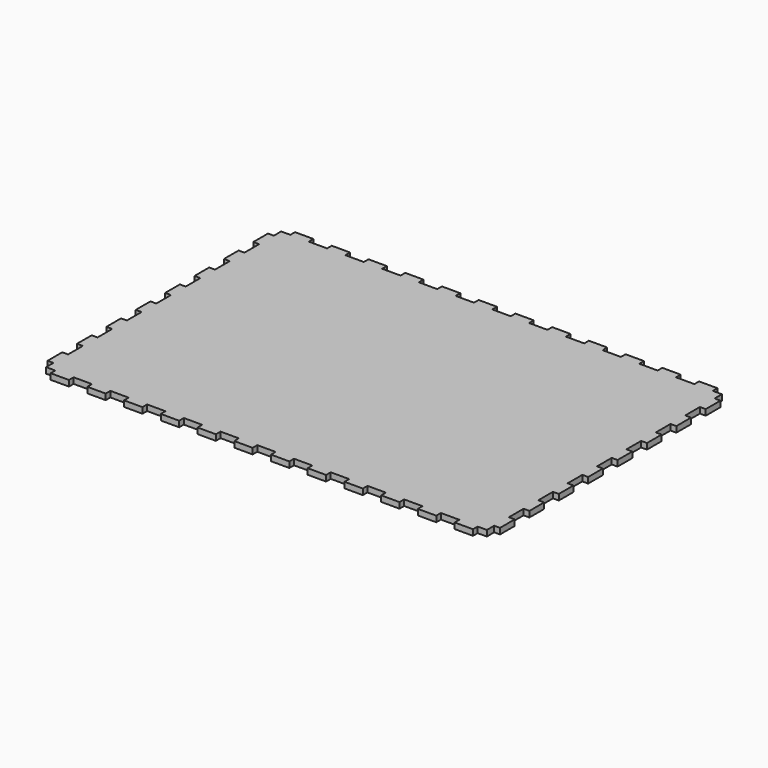
from build123d import *

# Parameters (mm, degrees)
F1_DEPTH = 3.175


with BuildPart() as f1:
    # F0 (on Top) → F1 (new body)
    with BuildSketch(Plane.XY):
        Polygon((120, 75), (120, 80), (115, 80), (115, 83.175), (105, 83.175), (105, 80), (95, 80), (95, 83.175), (85, 83.175), (85, 80), (75, 80), (75, 83.175), (65, 83.175), (65, 80), (55, 80), (55, 83.175), (45, 83.175), (45, 80), (35, 80), (35, 83.175), (25, 83.175), (25, 80), (15, 80), (15, 83.175), (5, 83.175), (5, 80), (0, 80), (-5, 80), (-5, 83.175), (-15, 83.175), (-15, 80), (-25, 80), (-25, 83.175), (-35, 83.175), (-35, 80), (-45, 80), (-45, 83.175), (-55, 83.175), (-55, 80), (-65, 80), (-65, 83.175), (-75, 83.175), (-75, 80), (-85, 80), (-85, 83.175), (-95, 83.175), (-95, 80), (-105, 80), (-105, 83.175), (-115, 83.175), (-115, 80), (-120, 80), (-120, 75), (-123.175, 75), (-123.175, 65), (-120, 65), (-120, 55), (-123.175, 55), (-123.175, 45), (-120, 45), (-120, 35), (-123.175, 35), (-123.175, 25), (-120, 25), (-120, 15), (-123.175, 15), (-123.175, 5), (-120, 5), (-120, 0), (-120, -5), (-123.175, -5), (-123.175, -15), (-120, -15), (-120, -25), (-123.175, -25), (-123.175, -35), (-120, -35), (-120, -45), (-123.175, -45), (-123.175, -55), (-120, -55), (-120, -65), (-123.175, -65), (-123.175, -75), (-120, -75), (-120, -80), (-115, -80), (-115, -83.175), (-105, -83.175), (-105, -80), (-95, -80), (-95, -83.175), (-85, -83.175), (-85, -80), (-75, -80), (-75, -83.175), (-65, -83.175), (-65, -80), (-55, -80), (-55, -83.175), (-45, -83.175), (-45, -80), (-35, -80), (-35, -83.175), (-25, -83.175), (-25, -80), (-15, -80), (-15, -83.175), (-5, -83.175), (-5, -80), (0, -80), (5, -80), (5, -83.175), (15, -83.175), (15, -80), (25, -80), (25, -83.175), (35, -83.175), (35, -80), (45, -80), (45, -83.175), (55, -83.175), (55, -80), (65, -80), (65, -83.175), (75, -83.175), (75, -80), (85, -80), (85, -83.175), (95, -83.175), (95, -80), (105, -80), (105, -83.175), (115, -83.175), (115, -80), (120, -80), (120, -75), (123.175, -75), (123.175, -65), (120, -65), (120, -55), (123.175, -55), (123.175, -45), (120, -45), (120, -35), (123.175, -35), (123.175, -25), (120, -25), (120, -15), (123.175, -15), (123.175, -5), (120, -5), (120, 0), (120, 5), (123.175, 5), (123.175, 15), (120, 15), (120, 25), (123.175, 25), (123.175, 35), (120, 35), (120, 45), (123.175, 45), (123.175, 55), (120, 55), (120, 65), (123.175, 65), (123.175, 75), align=None)
    extrude(amount=F1_DEPTH)


solid = f1.part
